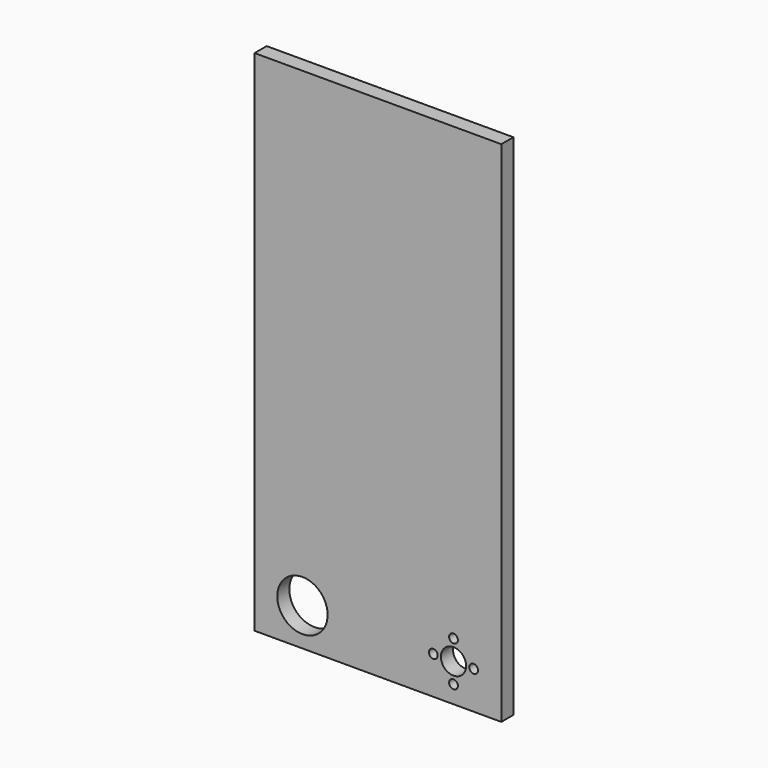
from build123d import *

# Parameters (mm, degrees)
SKETCH_W   = 98
SKETCH_H   = 202
SKETCH_R   = 10
SKETCH_R_2 = 5
SKETCH_R_3 = 1.75
PAD_DEPTH  = 6


with BuildPart() as part:
    # Sketch → Pad (new body)
    with BuildSketch(Plane.XZ):
        with Locations((49, 101)):
            Rectangle(SKETCH_W, SKETCH_H)
        with Locations((19, 15)):
            Circle(SKETCH_R, mode=Mode.SUBTRACT)
        with Locations((79, 15)):
            Circle(SKETCH_R_2, mode=Mode.SUBTRACT)
        with Locations((79, 23)):
            Circle(SKETCH_R_3, mode=Mode.SUBTRACT)
        with Locations((71, 15)):
            Circle(SKETCH_R_3, mode=Mode.SUBTRACT)
        with Locations((79, 7)):
            Circle(SKETCH_R_3, mode=Mode.SUBTRACT)
        with Locations((87, 15)):
            Circle(SKETCH_R_3, mode=Mode.SUBTRACT)
    extrude(amount=PAD_DEPTH)


solid = part.part
